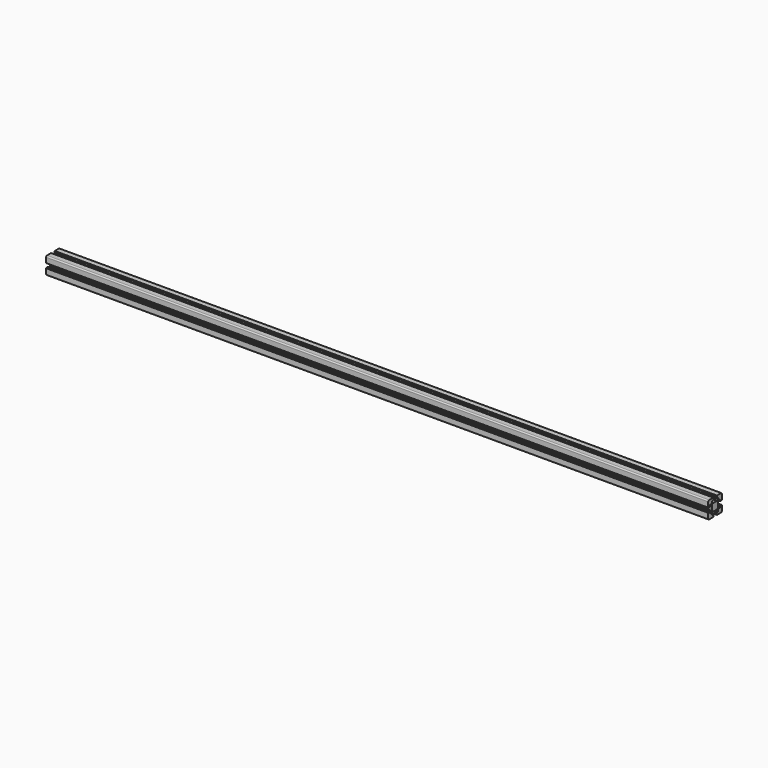
from build123d import *

# Parameters (mm, degrees)
F1_DEPTH = 1739.9


with BuildPart() as f1:
    # F0 (on Right) → F1 (new body)
    with BuildSketch(Plane.YZ):
        with BuildLine():
            Line((-20.088481, -9.788837), (-20.088481, -10.288837))
            Line((-20.088481, -10.288837), (-21.28859, -10.288837))
            ThreePointArc((-21.28859, -10.288837), (-21.500722, -10.376705), (-21.58859, -10.588837))
            Line((-21.58859, -10.588837), (-21.58859, -23.988949))
            ThreePointArc((-21.58859, -23.988949), (-20.70991, -26.11027), (-18.58859, -26.988949))
            Line((-18.58859, -26.988949), (-5.188544, -26.988949))
            ThreePointArc((-5.188544, -26.988949), (-4.976411, -26.901081), (-4.888544, -26.688949))
            Line((-4.888544, -26.688949), (-4.888544, -25.488841))
            Line((-4.888544, -25.488841), (-4.388544, -25.488841))
            ThreePointArc((-4.388544, -25.488841), (-4.176411, -25.400973), (-4.088544, -25.188841))
            Line((-4.088544, -25.188841), (-4.088544, -21.288841))
            ThreePointArc((-4.088544, -21.288841), (-4.176411, -21.076709), (-4.388544, -20.988841))
            Line((-4.388544, -20.988841), (-9.138663, -20.988841))
            Line((-9.138663, -20.988841), (-9.138663, -16.881665))
            Line((-9.138663, -16.881665), (-6.245729, -13.988731))
            Line((-6.245729, -13.988731), (-2.211433, -13.988731))
            ThreePointArc((-2.211433, -13.988731), (-0.669869, -14.363044), (0.91149, -14.48887))
            Line((0.91149, -14.48887), (0.91149, -4.48887))
            Line((0.91149, -4.48887), (-9.08851, -4.48887))
            ThreePointArc((-9.08851, -4.48887), (-8.962684, -6.070229), (-8.588371, -7.611793))
            Line((-8.588371, -7.611793), (-8.588371, -11.646022))
            Line((-8.588371, -11.646022), (-11.481305, -14.538956))
            Line((-11.481305, -14.538956), (-15.588481, -14.538956))
            Line((-15.588481, -14.538956), (-15.588481, -9.788837))
            ThreePointArc((-15.588481, -9.788837), (-15.676349, -9.576705), (-15.888481, -9.488837))
            Line((-15.888481, -9.488837), (-19.788481, -9.488837))
            ThreePointArc((-19.788481, -9.488837), (-20.000613, -9.576705), (-20.088481, -9.788837))
        make_face()
        with BuildLine():
            ThreePointArc((-8.588371, -1.365947), (-8.962684, -2.907511), (-9.08851, -4.48887))
            Line((-9.08851, -4.48887), (0.91149, -4.48887))
            Line((0.91149, -4.48887), (0.91149, 5.51113))
            ThreePointArc((0.91149, 5.51113), (-0.669869, 5.385303), (-2.211433, 5.010991))
            Line((-2.211433, 5.010991), (-6.245729, 5.010991))
            Line((-6.245729, 5.010991), (-9.138663, 7.903925))
            Line((-9.138663, 7.903925), (-9.138663, 12.011101))
            Line((-9.138663, 12.011101), (-4.388544, 12.011101))
            ThreePointArc((-4.388544, 12.011101), (-4.176411, 12.098969), (-4.088544, 12.311101))
            Line((-4.088544, 12.311101), (-4.088544, 16.211101))
            ThreePointArc((-4.088544, 16.211101), (-4.176411, 16.423233), (-4.388544, 16.511101))
            Line((-4.388544, 16.511101), (-4.888544, 16.511101))
            Line((-4.888544, 16.511101), (-4.888544, 17.711209))
            ThreePointArc((-4.888544, 17.711209), (-4.976411, 17.923341), (-5.188544, 18.011209))
            Line((-5.188544, 18.011209), (-18.58859, 18.011209))
            ThreePointArc((-18.58859, 18.011209), (-20.70991, 17.13253), (-21.58859, 15.011209))
            Line((-21.58859, 15.011209), (-21.58859, 1.611097))
            ThreePointArc((-21.58859, 1.611097), (-21.500722, 1.398965), (-21.28859, 1.311097))
            Line((-21.28859, 1.311097), (-20.088481, 1.311097))
            Line((-20.088481, 1.311097), (-20.088481, 0.811097))
            ThreePointArc((-20.088481, 0.811097), (-20.000613, 0.598965), (-19.788481, 0.511097))
            Line((-19.788481, 0.511097), (-15.888481, 0.511097))
            ThreePointArc((-15.888481, 0.511097), (-15.676349, 0.598965), (-15.588481, 0.811097))
            Line((-15.588481, 0.811097), (-15.588481, 5.561216))
            Line((-15.588481, 5.561216), (-11.481305, 5.561216))
            Line((-11.481305, 5.561216), (-8.588371, 2.668282))
            Line((-8.588371, 2.668282), (-8.588371, -1.365947))
        make_face()
        with BuildLine():
            Line((0.91149, 5.51113), (0.91149, -4.48887))
            Line((0.91149, -4.48887), (10.91149, -4.48887))
            ThreePointArc((10.91149, -4.48887), (10.785663, -2.907511), (10.41135, -1.365947))
            Line((10.41135, -1.365947), (10.41135, 2.668282))
            Line((10.41135, 2.668282), (13.304285, 5.561216))
            Line((13.304285, 5.561216), (14.016842, 5.561216))
            Line((14.016842, 5.561216), (17.41146, 5.561216))
            Line((17.41146, 5.561216), (17.41146, 0.811097))
            ThreePointArc((17.41146, 0.811097), (17.499328, 0.598965), (17.71146, 0.511097))
            Line((17.71146, 0.511097), (21.61146, 0.511097))
            ThreePointArc((21.61146, 0.511097), (21.823593, 0.598965), (21.91146, 0.811097))
            Line((21.91146, 0.811097), (21.91146, 1.311097))
            Line((21.91146, 1.311097), (23.111569, 1.311097))
            ThreePointArc((23.111569, 1.311097), (23.323701, 1.398965), (23.411569, 1.611097))
            Line((23.411569, 1.611097), (23.411569, 15.011209))
            ThreePointArc((23.411569, 15.011209), (22.532889, 17.13253), (20.411569, 18.011209))
            Line((20.411569, 18.011209), (7.011523, 18.011209))
            ThreePointArc((7.011523, 18.011209), (6.799391, 17.923341), (6.711523, 17.711209))
            Line((6.711523, 17.711209), (6.711523, 16.511101))
            Line((6.711523, 16.511101), (6.211523, 16.511101))
            ThreePointArc((6.211523, 16.511101), (5.999391, 16.423233), (5.911523, 16.211101))
            Line((5.911523, 16.211101), (5.911523, 12.311101))
            ThreePointArc((5.911523, 12.311101), (5.999391, 12.098969), (6.211523, 12.011101))
            Line((6.211523, 12.011101), (10.961642, 12.011101))
            Line((10.961642, 12.011101), (10.961642, 7.903925))
            Line((10.961642, 7.903925), (8.068708, 5.010991))
            Line((8.068708, 5.010991), (4.034413, 5.010991))
            ThreePointArc((4.034413, 5.010991), (2.492849, 5.385303), (0.91149, 5.51113))
        make_face()
        with BuildLine():
            Line((10.91149, -4.48887), (0.91149, -4.48887))
            Line((0.91149, -4.48887), (0.91149, -14.48887))
            ThreePointArc((0.91149, -14.48887), (2.492849, -14.363044), (4.034413, -13.988731))
            Line((4.034413, -13.988731), (8.068708, -13.988731))
            Line((8.068708, -13.988731), (10.961642, -16.881665))
            Line((10.961642, -16.881665), (10.961642, -20.988841))
            Line((10.961642, -20.988841), (6.211523, -20.988841))
            ThreePointArc((6.211523, -20.988841), (5.999391, -21.076709), (5.911523, -21.288841))
            Line((5.911523, -21.288841), (5.911523, -25.188841))
            ThreePointArc((5.911523, -25.188841), (5.999391, -25.400973), (6.211523, -25.488841))
            Line((6.211523, -25.488841), (6.711523, -25.488841))
            Line((6.711523, -25.488841), (6.711523, -26.688949))
            ThreePointArc((6.711523, -26.688949), (6.799391, -26.901081), (7.011523, -26.988949))
            Line((7.011523, -26.988949), (20.411569, -26.988949))
            ThreePointArc((20.411569, -26.988949), (22.532889, -26.11027), (23.411569, -23.988949))
            Line((23.411569, -23.988949), (23.411569, -10.588837))
            ThreePointArc((23.411569, -10.588837), (23.323701, -10.376705), (23.111569, -10.288837))
            Line((23.111569, -10.288837), (21.91146, -10.288837))
            Line((21.91146, -10.288837), (21.91146, -9.788837))
            ThreePointArc((21.91146, -9.788837), (21.823593, -9.576705), (21.61146, -9.488837))
            Line((21.61146, -9.488837), (17.71146, -9.488837))
            ThreePointArc((17.71146, -9.488837), (17.499328, -9.576705), (17.41146, -9.788837))
            Line((17.41146, -9.788837), (17.41146, -14.538956))
            Line((17.41146, -14.538956), (13.304285, -14.538956))
            Line((13.304285, -14.538956), (10.41135, -11.646022))
            Line((10.41135, -11.646022), (10.41135, -7.611793))
            ThreePointArc((10.41135, -7.611793), (10.785663, -6.070229), (10.91149, -4.48887))
        make_face()
    extrude(amount=F1_DEPTH)


solid = f1.part
